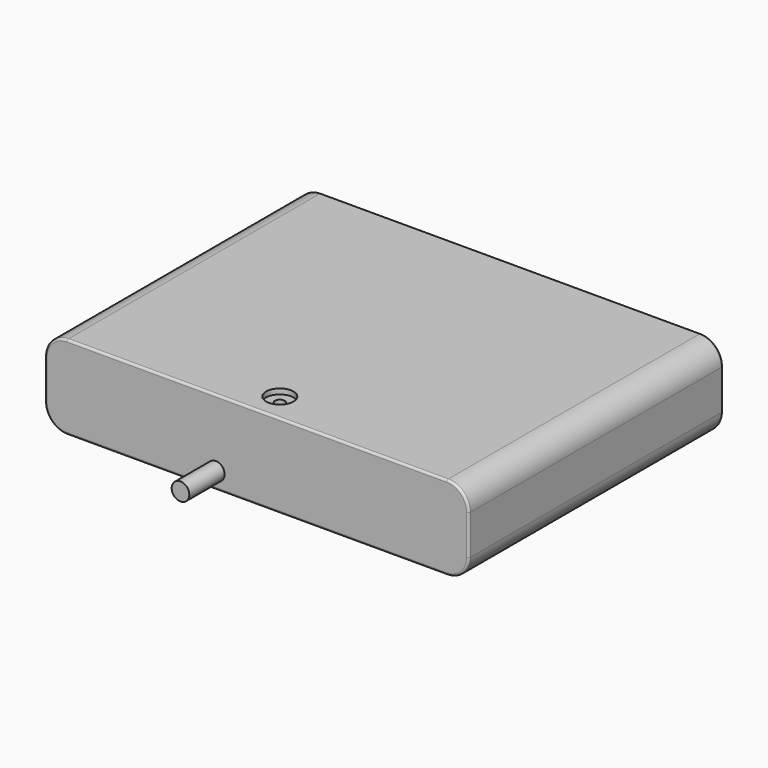
from build123d import *

# Parameters (mm, degrees)
F0_W     = 96
F0_H     = 72
F1_DEPTH = 19
F2_R     = 5
F3_R     = 0.5
F4_R     = 2
F5_DEPTH = 10
F6_R     = 1.1
F7_DEPTH = 5
F6_R_2   = 3.1
F8_DEPTH = 1.2


with BuildPart() as f1:
    # F0 (on Top) → F1 (new body)
    with BuildSketch(Plane.XY):
        Rectangle(F0_W, F0_H)
    extrude(amount=F1_DEPTH)

    # F2
    f2_edges = [f1.edges().sort_by_distance(p)[0] for p in [
        (48, 0, 19),
        (48, 0, 0),
        (-48, 0, 19),
        (-48, 0, 0),
    ]]
    fillet(f2_edges, radius=F2_R)

    # F3
    f3_edges = [f1.edges().sort_by_distance(p)[0] for p in [
        (-48, -36, 9.5),
        (-46.535534, -36, 1.464466),
        (-46.535534, -36, 17.535534),
        (0, -36, 0),
        (0, -36, 19),
        (46.535534, -36, 1.464466),
        (46.535534, -36, 17.535534),
        (48, -36, 9.5),
        (48, 36, 9.5),
        (46.535534, 36, 1.464466),
        (46.535534, 36, 17.535534),
        (0, 36, 0),
        (0, 36, 19),
        (-46.535534, 36, 1.464466),
        (-46.535534, 36, 17.535534),
        (-48, 36, 9.5),
    ]]
    fillet(f3_edges, radius=F3_R)

    # F4 (on face) → F5 (join)
    with BuildSketch(Plane.XZ.offset(36)):
        with Locations((-9.3, 3.75)):
            Circle(F4_R)
    extrude(amount=F5_DEPTH)

    # F6 (on face) → F7 (cut)
    with BuildSketch(Plane.XY.offset(19)):
        with Locations((0, -29.5)):
            Circle(F6_R)
    extrude(amount=-F7_DEPTH, mode=Mode.SUBTRACT)

    # F6 (on face) → F8 (cut)
    with BuildSketch(Plane.XY.offset(19)):
        with Locations((0, -29.5)):
            Circle(F6_R_2)
        with Locations((0, -29.5)):
            Circle(F6_R, mode=Mode.SUBTRACT)
    extrude(amount=-F8_DEPTH, mode=Mode.SUBTRACT)


solid = f1.part
